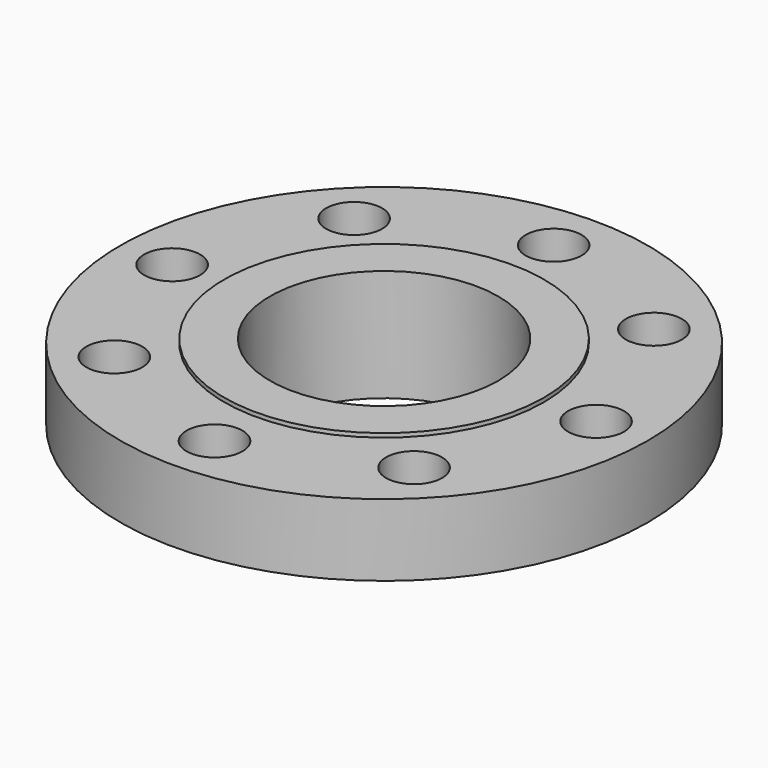
from build123d import *

# Parameters (mm, degrees)
F0_R     = 104.775
F1_DEPTH = 28.575
F2_R     = 63.5
F3_DEPTH = 1.5875
F4_R     = 58.7375
F5_DEPTH = 14.2875
F5_TAPER = 3
F6_R     = 45.339
F7_DEPTH = 44.4510001
F9_D     = 22.225


with BuildPart() as f1:
    # F0 (on Top) → F1 (new body)
    with BuildSketch(Plane.XY):
        Circle(F0_R)
    extrude(amount=-F1_DEPTH)

    # F2 (on face) → F3 (join)
    with BuildSketch(Plane.XY):
        Circle(F2_R)
    extrude(amount=F3_DEPTH)

    # F4 (on face) → F5 (join)
    with BuildSketch(Plane(origin=(0, 0, -28.575), x_dir=(1, 0, 0), z_dir=(0, 0, -1))):
        Circle(F4_R)
    extrude(amount=F5_DEPTH, taper=F5_TAPER)

    # F6 (on face) → F7 (cut, through all)
    with BuildSketch(Plane.XY.offset(1.5875)):
        Circle(F6_R)
    extrude(amount=-F7_DEPTH, mode=Mode.SUBTRACT)

    # F9 (through all)
    with Locations(Plane.XY):
        with Locations((84.1375, 0), (59.4941968021, 59.4941968021), (0, 84.1375), (-59.4941968021, 59.4941968021), (-84.1375, 0), (-59.4941968021, -59.4941968021), (0, -84.1375), (59.4941968021, -59.4941968021)):
            Hole(F9_D / 2)


solid = f1.part
